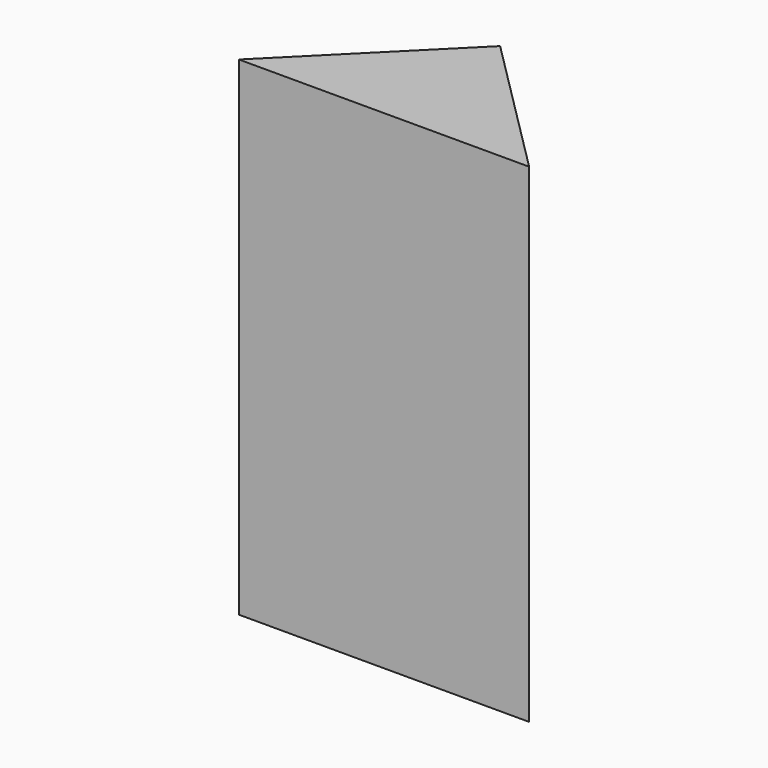
from build123d import *

# Parameters (mm, degrees)
F1_DEPTH = 50
F2_T     = -2.54


with BuildPart() as f1:
    # F0 (on Top) → F1 (new body)
    with BuildSketch(Plane.XY):
        Polygon((14.849242, -14.849242), (0, 0), (-14.849242, -14.849242), align=None)
    extrude(amount=F1_DEPTH)

    # F2
    f2_openings = [f1.faces().sort_by_distance(p)[0] for p in [
        (-7.424621, -7.424621, 25),
        (7.424621, -7.424621, 25),
    ]]
    offset(amount=F2_T, openings=f2_openings)


solid = f1.part
